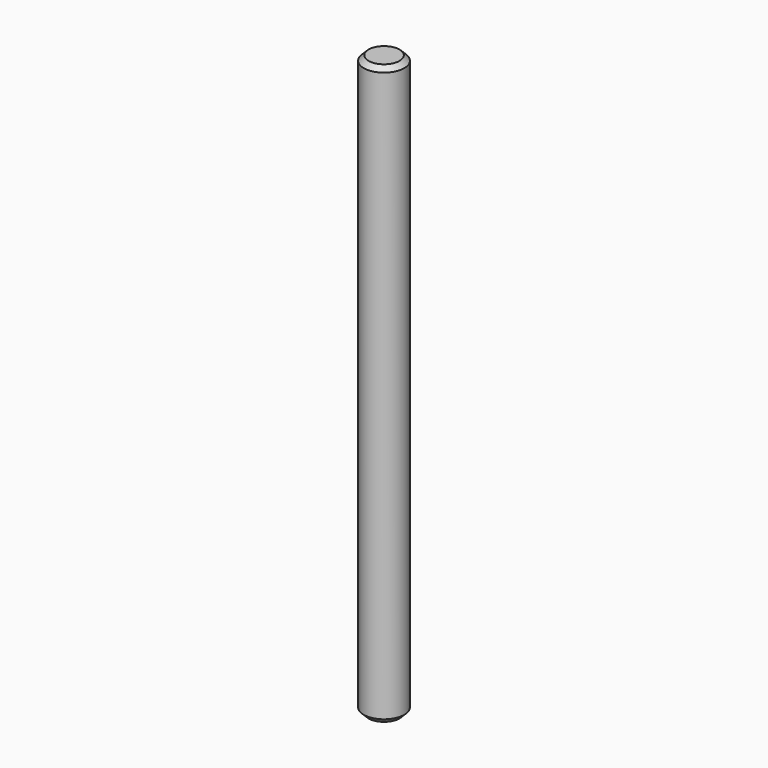
from build123d import *

# Parameters (mm, degrees)
SKETCH_R     = 2.1
PAD_DEPTH    = 60
CHAMFER_SIZE = 0.5


with BuildPart() as part:
    # Sketch → Pad (new body)
    with BuildSketch(Plane.XY):
        Circle(SKETCH_R)
    extrude(amount=PAD_DEPTH)

    # Chamfer
    chamfer_edges = [part.edges().sort_by_distance(p)[0] for p in [
        (-2.1, 0, 60),
        (-2.1, 0, 0),
    ]]
    chamfer(chamfer_edges, length=CHAMFER_SIZE)


solid = part.part
